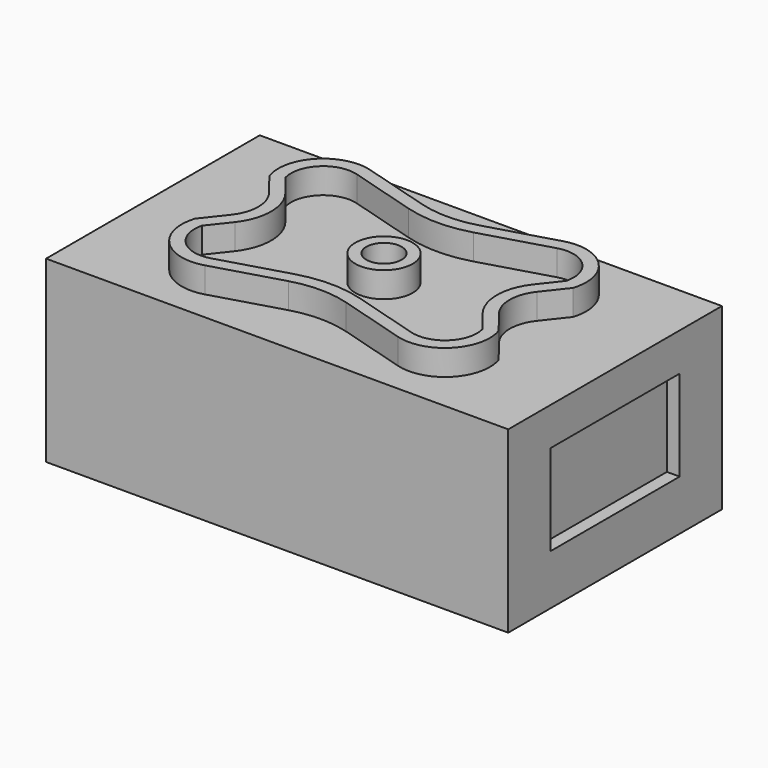
from build123d import *

# Parameters (mm, degrees)
F0_W          = 229.506806
F0_H          = 132.64066
F0_R          = 8.758442
F1_DEPTH      = 12.7
F1_DEPTH_BACK = 76.2
F0_R_2        = 14.221209
F2_DEPTH      = 12.7
F3_DEPTH      = 25.4
F4_DEPTH      = 12.7
F5_W          = 80.183886
F5_H          = 45.04325
F6_DEPTH      = 6.35
F7_R          = 24.948255
F8_DEPTH      = 9.525


with BuildPart() as f1:
    # F0 (on Top) → F1 (new body, two sides)
    with BuildSketch(Plane.XY) as f1_sk:
        Rectangle(F0_W, F0_H)
        with BuildLine():
            ThreePointArc((-66.51097, -11.780334), (-62.431816, 0), (-66.51097, 11.780334))
            Line((-66.51097, 11.780334), (-75.397, 23.073001))
            ThreePointArc((-75.397, 23.073001), (-70.17249, 45.484427), (-47.911137, 51.315352))
            Line((-47.911137, 51.315352), (-14.361814, 41.427133))
            ThreePointArc((-14.361814, 41.427133), (0, 39.354725), (14.361814, 41.427133))
            Line((14.361814, 41.427133), (47.911137, 51.315352))
            ThreePointArc((47.911137, 51.315352), (70.17249, 45.484427), (75.397, 23.073001))
            Line((75.397, 23.073001), (66.51097, 11.780334))
            ThreePointArc((66.51097, 11.780334), (62.431816, 0), (66.51097, -11.780334))
            Line((66.51097, -11.780334), (75.397, -23.073001))
            ThreePointArc((75.397, -23.073001), (70.17249, -45.484427), (47.911137, -51.315352))
            Line((47.911137, -51.315352), (14.361814, -41.427133))
            ThreePointArc((14.361814, -41.427133), (0, -39.354725), (-14.361814, -41.427133))
            Line((-14.361814, -41.427133), (-47.911137, -51.315352))
            ThreePointArc((-47.911137, -51.315352), (-70.17249, -45.484427), (-75.397, -23.073001))
            Line((-75.397, -23.073001), (-66.51097, -11.780334))
        make_face(mode=Mode.SUBTRACT)
        Circle(F0_R)
    extrude(amount=F1_DEPTH)
    extrude(f1_sk.sketch, amount=-F1_DEPTH_BACK)



with BuildPart() as f2:
    # F0 (on Top) → F2 (new body)
    with BuildSketch(Plane.XY):
        with BuildLine():
            ThreePointArc((69.645687, 26.032636), (65.252866, 41.422588), (49.706364, 45.224403))
            Line((49.706364, 45.224403), (16.157041, 35.336183))
            ThreePointArc((16.157041, 35.336183), (0, 33.004725), (-16.157041, 35.336183))
            Line((-16.157041, 35.336183), (-49.706364, 45.224403))
            ThreePointArc((-49.706364, 45.224403), (-65.252866, 41.422588), (-69.645687, 26.032636))
            Line((-69.645687, 26.032636), (-61.520688, 15.707112))
            ThreePointArc((-61.520688, 15.707112), (-56.081816, 0), (-61.520688, -15.707112))
            Line((-61.520688, -15.707112), (-69.645687, -26.032636))
            ThreePointArc((-69.645687, -26.032636), (-65.252866, -41.422588), (-49.706364, -45.224403))
            Line((-49.706364, -45.224403), (-16.157041, -35.336183))
            ThreePointArc((-16.157041, -35.336183), (0, -33.004725), (16.157041, -35.336183))
            Line((16.157041, -35.336183), (49.706364, -45.224403))
            ThreePointArc((49.706364, -45.224403), (65.252866, -41.422588), (69.645687, -26.032636))
            Line((69.645687, -26.032636), (61.520688, -15.707112))
            ThreePointArc((61.520688, -15.707112), (56.081816, 0), (61.520688, 15.707112))
            Line((61.520688, 15.707112), (69.645687, 26.032636))
        make_face()
        Circle(F0_R_2, mode=Mode.SUBTRACT)
    extrude(amount=F2_DEPTH)


with BuildPart() as f1_1:
    add(f1.part)

    add(f2.part)  # F3 merges F2
    # F0 (on Top) → F3 (join)
    with BuildSketch(Plane.XY):
        with BuildLine():
            Line((-75.397, 23.073001), (-66.51097, 11.780334))
            ThreePointArc((-66.51097, 11.780334), (-62.431816, 0), (-66.51097, -11.780334))
            Line((-66.51097, -11.780334), (-75.397, -23.073001))
            ThreePointArc((-75.397, -23.073001), (-70.17249, -45.484427), (-47.911137, -51.315352))
            Line((-47.911137, -51.315352), (-14.361814, -41.427133))
            ThreePointArc((-14.361814, -41.427133), (0, -39.354725), (14.361814, -41.427133))
            Line((14.361814, -41.427133), (47.911137, -51.315352))
            ThreePointArc((47.911137, -51.315352), (70.17249, -45.484427), (75.397, -23.073001))
            Line((75.397, -23.073001), (66.51097, -11.780334))
            ThreePointArc((66.51097, -11.780334), (62.431816, 0), (66.51097, 11.780334))
            Line((66.51097, 11.780334), (75.397, 23.073001))
            ThreePointArc((75.397, 23.073001), (70.17249, 45.484427), (47.911137, 51.315352))
            Line((47.911137, 51.315352), (14.361814, 41.427133))
            ThreePointArc((14.361814, 41.427133), (0, 39.354725), (-14.361814, 41.427133))
            Line((-14.361814, 41.427133), (-47.911137, 51.315352))
            ThreePointArc((-47.911137, 51.315352), (-70.17249, 45.484427), (-75.397, 23.073001))
        make_face()
        with BuildLine():
            Line((16.157041, 35.336183), (49.706364, 45.224403))
            ThreePointArc((49.706364, 45.224403), (65.252866, 41.422588), (69.645687, 26.032636))
            Line((69.645687, 26.032636), (61.520688, 15.707112))
            ThreePointArc((61.520688, 15.707112), (56.081816, 0), (61.520688, -15.707112))
            Line((61.520688, -15.707112), (69.645687, -26.032636))
            ThreePointArc((69.645687, -26.032636), (65.252866, -41.422588), (49.706364, -45.224403))
            Line((49.706364, -45.224403), (16.157041, -35.336183))
            ThreePointArc((16.157041, -35.336183), (0, -33.004725), (-16.157041, -35.336183))
            Line((-16.157041, -35.336183), (-49.706364, -45.224403))
            ThreePointArc((-49.706364, -45.224403), (-65.252866, -41.422588), (-69.645687, -26.032636))
            Line((-69.645687, -26.032636), (-61.520688, -15.707112))
            ThreePointArc((-61.520688, -15.707112), (-56.081816, 0), (-61.520688, 15.707112))
            Line((-61.520688, 15.707112), (-69.645687, 26.032636))
            ThreePointArc((-69.645687, 26.032636), (-65.252866, 41.422588), (-49.706364, 45.224403))
            Line((-49.706364, 45.224403), (-16.157041, 35.336183))
            ThreePointArc((-16.157041, 35.336183), (0, 33.004725), (16.157041, 35.336183))
        make_face(mode=Mode.SUBTRACT)
        Circle(F0_R_2)
        Circle(F0_R, mode=Mode.SUBTRACT)
    extrude(amount=F3_DEPTH)

    # F0 (on Top) → F4 (join)
    with BuildSketch(Plane.XY):
        with BuildLine():
            ThreePointArc((69.645687, 26.032636), (65.252866, 41.422588), (49.706364, 45.224403))
            Line((49.706364, 45.224403), (16.157041, 35.336183))
            ThreePointArc((16.157041, 35.336183), (0, 33.004725), (-16.157041, 35.336183))
            Line((-16.157041, 35.336183), (-49.706364, 45.224403))
            ThreePointArc((-49.706364, 45.224403), (-65.252866, 41.422588), (-69.645687, 26.032636))
            Line((-69.645687, 26.032636), (-61.520688, 15.707112))
            ThreePointArc((-61.520688, 15.707112), (-56.081816, 0), (-61.520688, -15.707112))
            Line((-61.520688, -15.707112), (-69.645687, -26.032636))
            ThreePointArc((-69.645687, -26.032636), (-65.252866, -41.422588), (-49.706364, -45.224403))
            Line((-49.706364, -45.224403), (-16.157041, -35.336183))
            ThreePointArc((-16.157041, -35.336183), (0, -33.004725), (16.157041, -35.336183))
            Line((16.157041, -35.336183), (49.706364, -45.224403))
            ThreePointArc((49.706364, -45.224403), (65.252866, -41.422588), (69.645687, -26.032636))
            Line((69.645687, -26.032636), (61.520688, -15.707112))
            ThreePointArc((61.520688, -15.707112), (56.081816, 0), (61.520688, 15.707112))
            Line((61.520688, 15.707112), (69.645687, 26.032636))
        make_face()
        Circle(F0_R_2, mode=Mode.SUBTRACT)
    extrude(amount=F4_DEPTH)

    # F5 (on face) → F6 (cut)
    with BuildSketch(Plane.YZ.offset(114.753403)):
        with Locations((0, -28.695723)):
            Rectangle(F5_W, F5_H)
    extrude(amount=-F6_DEPTH, mode=Mode.SUBTRACT)

    # F7 (on face) → F8 (cut)
    with BuildSketch(Plane(origin=(-114.753403, 0, 0), x_dir=(0, -1, 0), z_dir=(-1, 0, 0))):
        with Locations((-3.9606, -21.613867)):
            Circle(F7_R)
    extrude(amount=-F8_DEPTH, mode=Mode.SUBTRACT)


solid = f1_1.part
